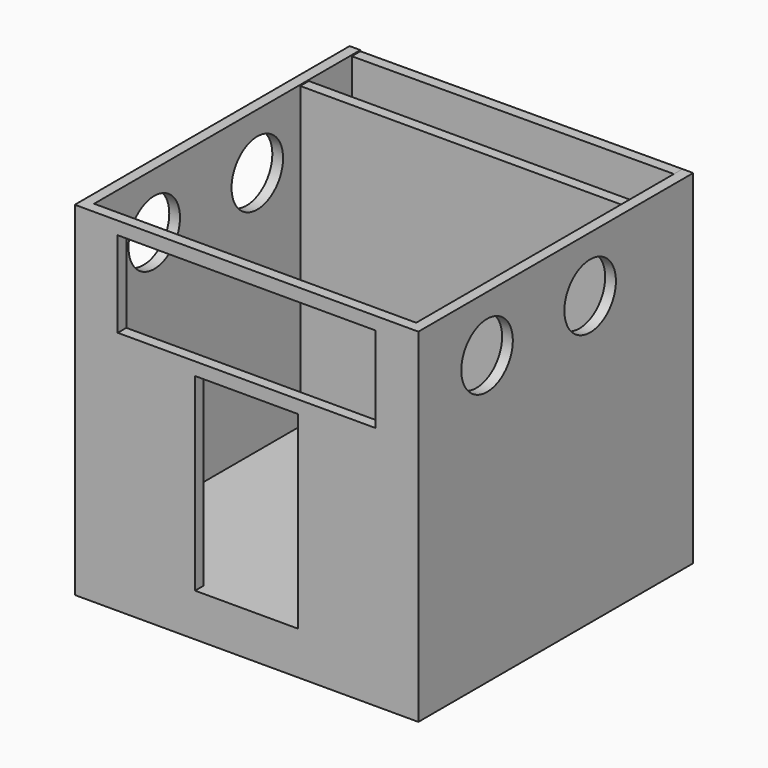
from build123d import *

# Parameters (mm, degrees)
SKETCH_W        = 3750
SKETCH_H        = 3750
PAD_DEPTH       = 150
SKETCH001_W     = 150
SKETCH001_H     = 350
PAD001_DEPTH    = 3750
CHAMFER_SIZE    = 100
SKETCH002_W     = 4000
SKETCH002_H     = 4000
PAD002_DEPTH    = 125
SKETCH003_W     = 125
SKETCH003_H     = 3487.44
PAD003_DEPTH    = 3750
SKETCH004_W     = 4000
SKETCH004_H     = 4000
PAD004_DEPTH    = 125
SKETCH005_W     = 3750
SKETCH005_H     = 4000
SKETCH005_W_2   = 1200
SKETCH005_H_2   = 2200
SKETCH005_W_3   = 3000
SKETCH005_H_3   = 1000
PAD005_DEPTH    = 125
SKETCH006_W     = 2700
SKETCH006_H     = 2400
PAD006_DEPTH    = 125
SKETCH008_W     = 297.762541
SKETCH008_H     = 158.48645
POCKET_DEPTH    = 5
SKETCH009_R     = 375
POCKET001_DEPTH = 4000.001


with BuildPart() as part:
    # Sketch → Pad (new body)
    with BuildSketch(Plane.XY):
        Rectangle(SKETCH_W, SKETCH_H)
    extrude(amount=PAD_DEPTH)

    # Sketch001 (on Face3 of Pad) → Pad001 (join)
    with BuildSketch(Plane.XZ.offset(1875)):
        with Locations((-1425, -175)):
            Rectangle(SKETCH001_W, SKETCH001_H)
        with Locations((-675, -175)):
            Rectangle(SKETCH001_W, SKETCH001_H)
        with Locations((675, -175)):
            Rectangle(SKETCH001_W, SKETCH001_H)
        with Locations((1425, -175)):
            Rectangle(SKETCH001_W, SKETCH001_H)
    extrude(amount=-PAD001_DEPTH)

    # Chamfer
    chamfer_edges = [part.edges().sort_by_distance(p)[0] for p in [
        (-1425, -1875, -350),
        (-675, -1875, -350),
        (675, -1875, -350),
        (1425, -1875, -350),
        (1425, 1875, -350),
        (675, 1875, -350),
        (-675, 1875, -350),
        (-1425, 1875, -350),
    ]]
    chamfer(chamfer_edges, length=CHAMFER_SIZE)

    # Sketch002 (on Face10 of Chamfer) → Pad002 (join)
    with BuildSketch(Plane(origin=(-1875, 0, 0), x_dir=(0, -1, 0), z_dir=(-1, 0, 0))):
        with Locations((0, 1650)):
            Rectangle(SKETCH002_W, SKETCH002_H)
    extrude(amount=PAD002_DEPTH)

    # Sketch003 (on Face12 of Pad002) → Pad003 (join)
    with BuildSketch(Plane.YZ.offset(1875)):
        with Locations((1187.5, 1893.72)):
            Rectangle(SKETCH003_W, SKETCH003_H)
    extrude(amount=-PAD003_DEPTH)

    # Sketch004 (on Face15 of Pad003) → Pad004 (join)
    with BuildSketch(Plane.YZ.offset(1875)):
        with Locations((0, 1650)):
            Rectangle(SKETCH004_W, SKETCH004_H)
    extrude(amount=PAD004_DEPTH)

    # Sketch005 (on Face7 of Pad004) → Pad005 (join)
    with BuildSketch(Plane.XZ.offset(1875)):
        with Locations((0, 1650)):
            Rectangle(SKETCH005_W, SKETCH005_H)
        with Locations((0, 1250)):
            Rectangle(SKETCH005_W_2, SKETCH005_H_2, mode=Mode.SUBTRACT)
        with Locations((0, 3000)):
            Rectangle(SKETCH005_W_3, SKETCH005_H_3, mode=Mode.SUBTRACT)
    extrude(amount=PAD005_DEPTH)

    # Sketch006 (on Face16 of Pad005) → Pad006 (join)
    with BuildSketch(Plane(origin=(0, 1875, 0), x_dir=(-1, 0, 0), z_dir=(0, 1, 0))):
        Polygon((-1875, 3650), (1875, 3637.44), (1875, -350), (-1875, -350), align=None)
        with Locations((0, 1350)):
            Rectangle(SKETCH006_W, SKETCH006_H, mode=Mode.SUBTRACT)
    extrude(amount=PAD006_DEPTH)

    # Sketch008 → Pocket (cut)
    with BuildSketch(Plane(origin=(0, 1850, 0), x_dir=(-1, 0, 0), z_dir=(0, 1, 0))):
        with Locations((534.822146, 1582.312195)):
            Rectangle(SKETCH008_W, SKETCH008_H)
    extrude(amount=-POCKET_DEPTH, mode=Mode.SUBTRACT)

    # Sketch009 (on Face7 of Pad006) → Pocket001 (cut, through all)
    with BuildSketch(Plane.YZ.offset(2000)):
        with Locations((-1000, 3000)):
            Circle(SKETCH009_R)
        with Locations((500, 3000)):
            Circle(SKETCH009_R)
    extrude(amount=-POCKET001_DEPTH, mode=Mode.SUBTRACT)


solid = part.part
